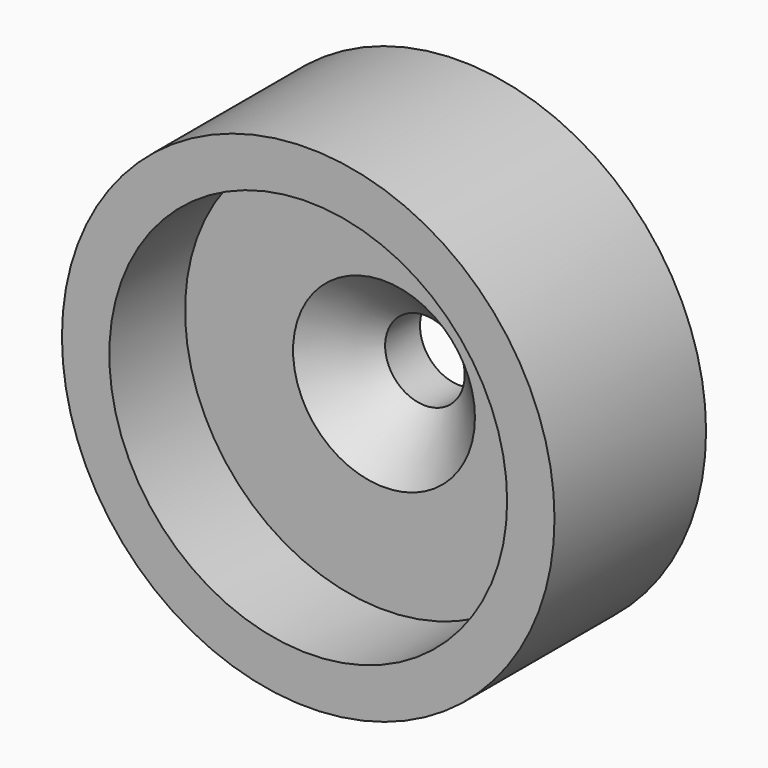
from build123d import *

# Parameters (mm, degrees)
F0_R     = 13
F0_R_2   = 10.5
F1_DEPTH = 5
F0_R_3   = 2.1
F2_DEPTH = 5
F3_SIZE2 = 2.7
F3_SIZE  = 2.7


with BuildPart() as f1:
    # F0 (on Front) → F1 (new body)
    with BuildSketch(Plane.XZ):
        with Locations((-16.9531982392, -2.1669319831)):
            Circle(F0_R)
        with Locations((-16.9531982392, -2.1669319831)):
            Circle(F0_R_2, mode=Mode.SUBTRACT)
    extrude(amount=F1_DEPTH)

    # F0 (on Front) → F2 (join)
    with BuildSketch(Plane.XZ):
        with Locations((-16.9531982392, -2.1669319831)):
            Circle(F0_R)
        with Locations((-16.9531982392, -2.1669319831)):
            Circle(F0_R_2, mode=Mode.SUBTRACT)
        with Locations((-16.9531982392, -2.1669319831)):
            Circle(F0_R_2)
        with Locations((-16.9531982392, -2.1669319831)):
            Circle(F0_R_3, mode=Mode.SUBTRACT)
    extrude(amount=-F2_DEPTH)

    # F3
    f3_edges = [f1.edges().sort_by_distance(p)[0] for p in [
        (-19.053198, 0, -2.166932),
    ]]
    chamfer(f3_edges, length=F3_SIZE, length2=F3_SIZE2)


solid = f1.part
